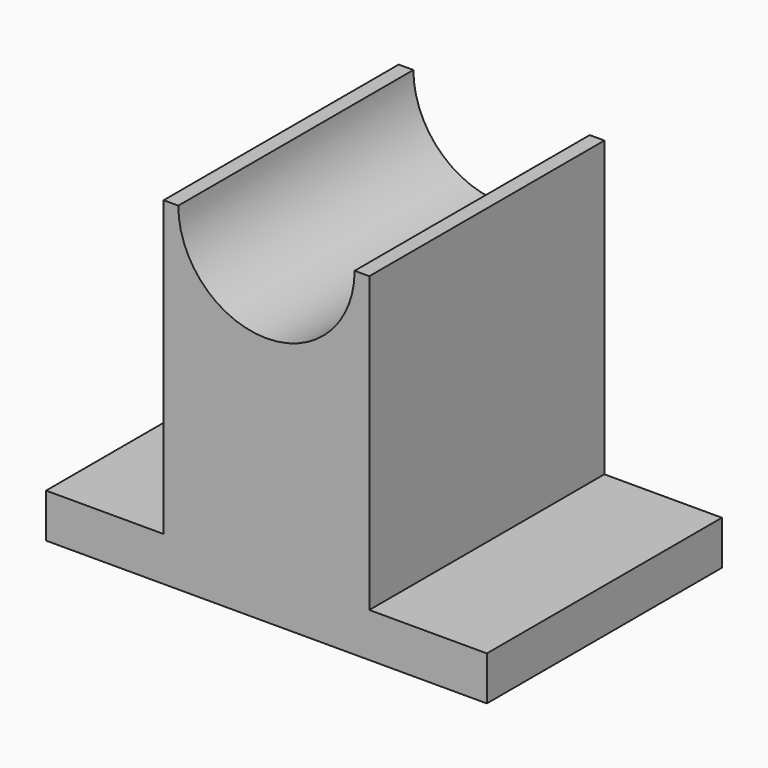
from build123d import *

# Parameters (mm, degrees)
F1_DEPTH = 100


with BuildPart() as f1:
    # F0 (on Front) → F1 (new body)
    with BuildSketch(Plane.XZ):
        Polygon((-70, -17.953758), (-110, -17.953758), (-110, -32.953758), (40, -32.953758), (40, -17.953758), (0, -17.953758), align=None)
        with BuildLine():
            Line((-70, 82.046242), (-70, -17.953758))
            Line((-70, -17.953758), (0, -17.953758))
            Line((0, -17.953758), (0, 82.046242))
            Line((0, 82.046242), (-5, 82.046242))
            ThreePointArc((-5, 82.046242), (-35, 52.046242), (-65, 82.046242))
            Line((-65, 82.046242), (-70, 82.046242))
        make_face()
    extrude(amount=F1_DEPTH)


solid = f1.part
